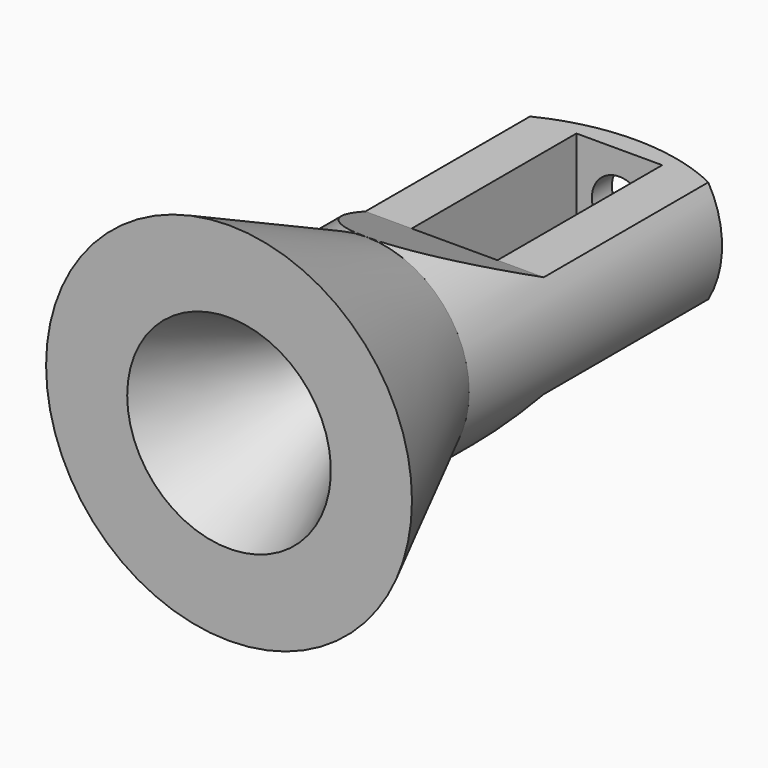
from build123d import *

# Parameters (mm, degrees)
F3_DEPTH = 30
F5_W     = 25
F5_H     = 60
F6_DEPTH = 68.316383


with BuildPart() as f1:
    # F0 (on Top) → F1 (revolve)
    with BuildSketch(Plane.XY):
        with BuildLine():
            Line((-30, 50), (-53.315383, 0))
            Line((-53.315383, 0), (-29.677889, 0))
            Line((-29.677889, 0), (-10, 42.19937))
            Line((-10, 42.19937), (-8, 42.19937))
            Line((-8, 42.19937), (-8, 149.473135))
            ThreePointArc((-8, 149.473135), (-19.353102, 146.848573), (-30, 142.113087))
            Line((-30, 142.113087), (-30, 50))
        make_face()
    revolve(axis=Axis((0, 44.812715, 0), (0, 1, 0)))

    # F2 (on Right) → F3 (cut, symmetric)
    with BuildSketch(Plane.YZ):
        Polygon((149.473135, 30), (50, 30), (82.167604, 15), (149.473135, 15), align=None)
    extrude(amount=F3_DEPTH, both=True, mode=Mode.SUBTRACT)

    # F4: F1 across plane


with BuildPart() as f1_1:
    add(f1.part)
    add(f1.part.mirror(Plane.XY), mode=Mode.INTERSECT)

    # F5 (on face) → F6 (cut, through all)
    with BuildSketch(Plane.XY.offset(15)):
        with Locations((0, 112.167604)):
            Rectangle(F5_W, F5_H)
    extrude(amount=-F6_DEPTH, mode=Mode.SUBTRACT)


solid = f1_1.part
